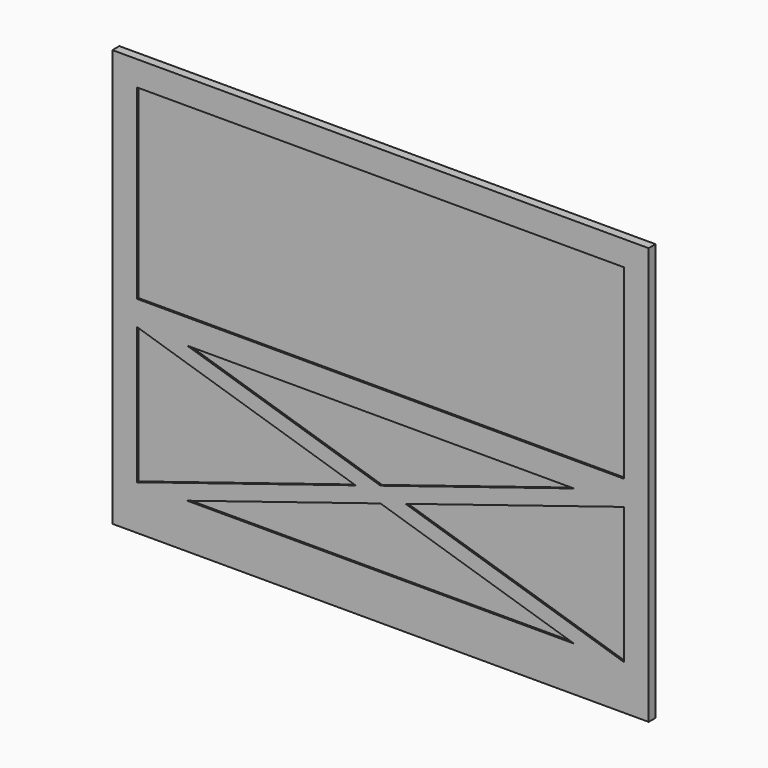
from build123d import *

# Parameters (mm, degrees)
F0_W     = 2743.2
F0_H     = 2133.6
F1_DEPTH = 22.225
F0_W_2   = 2489.2
F0_H_2   = 952.5
F2_DEPTH = 12.7


with BuildPart() as f1:
    # F0 (on Front) → F1 (new body, symmetric)
    with BuildSketch(Plane.XZ):
        Rectangle(F0_W, F0_H)
        Polygon((-1244.6, -12.7), (-1244.6, 939.8), (1244.6, 939.8), (1244.6, -12.7), (1244.6, -139.7), (1244.6, -838.2), (989.2695746648, -838.2), (-989.2695746648, -838.2), (-1244.6, -838.2), (-1244.6, -139.7), align=None, mode=Mode.SUBTRACT)
        Polygon((1244.6, -12.7), (-1244.6, -12.7), (-1244.6, -139.7), (-989.2695746648, -139.7), (989.2695746648, -139.7), (1244.6, -139.7), align=None)
        Polygon((127.6652126676, -488.95), (1244.6, -139.7), (989.2695746648, -139.7), (0, -449.0308605571), align=None)
        Polygon((0, -449.0308605571), (-127.6652126676, -488.95), (0, -528.8691394429), (127.6652126676, -488.95), align=None)
        Polygon((-989.2695746648, -139.7), (-1244.6, -139.7), (-127.6652126676, -488.95), (0, -449.0308605571), align=None)
        Polygon((989.2695746648, -838.2), (1244.6, -838.2), (127.6652126676, -488.95), (0, -528.8691394429), align=None)
        Polygon((-127.6652126676, -488.95), (-1244.6, -838.2), (-989.2695746648, -838.2), (0, -528.8691394429), align=None)
    extrude(amount=F1_DEPTH, both=True)


with BuildPart() as f2:
    # F0 (on Front) → F2 (new body, symmetric)
    with BuildSketch(Plane.XZ):
        with Locations((0, 463.55)):
            Rectangle(F0_W_2, F0_H_2)
    extrude(amount=F2_DEPTH, both=True)


with BuildPart() as f2b:
    # F0 (on Front) → F2, piece 2 (new body, symmetric)
    with BuildSketch(Plane.XZ):
        Polygon((989.2695746648, -139.7), (-989.2695746648, -139.7), (0, -449.0308605571), align=None)
    extrude(amount=F2_DEPTH, both=True)


with BuildPart() as f2c:
    # F0 (on Front) → F2, piece 3 (new body, symmetric)
    with BuildSketch(Plane.XZ):
        Polygon((1244.6, -838.2), (1244.6, -139.7), (127.6652126676, -488.95), align=None)
    extrude(amount=F2_DEPTH, both=True)


with BuildPart() as f2d:
    # F0 (on Front) → F2, piece 4 (new body, symmetric)
    with BuildSketch(Plane.XZ):
        Polygon((0, -528.8691394429), (-989.2695746648, -838.2), (989.2695746648, -838.2), align=None)
    extrude(amount=F2_DEPTH, both=True)


with BuildPart() as f2e:
    # F0 (on Front) → F2, piece 5 (new body, symmetric)
    with BuildSketch(Plane.XZ):
        Polygon((-127.6652126676, -488.95), (-1244.6, -139.7), (-1244.6, -838.2), align=None)
    extrude(amount=F2_DEPTH, both=True)


solid = Compound([f1.part, f2.part, f2b.part, f2c.part, f2d.part, f2e.part])
